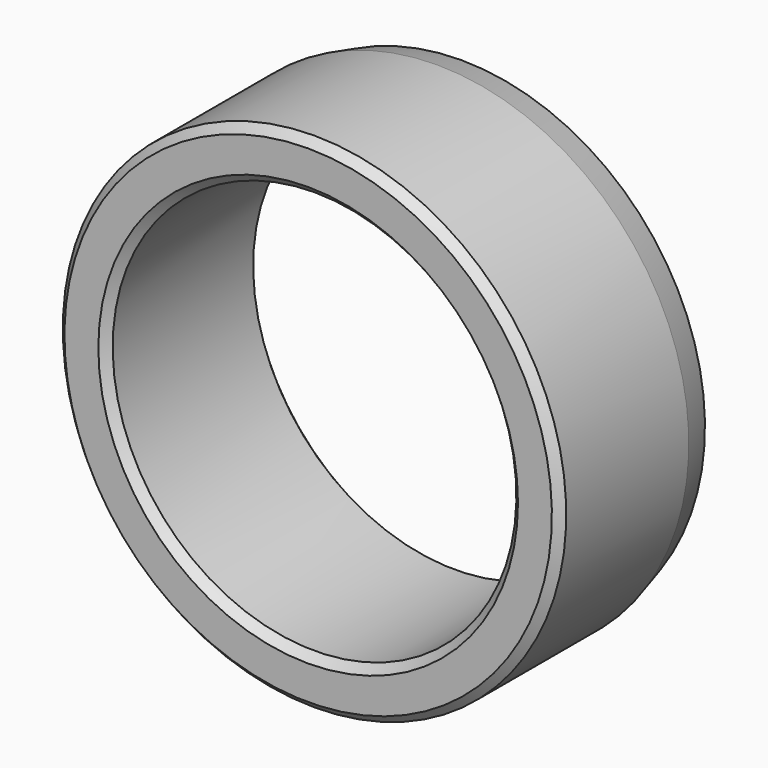
from build123d import *

# Parameters (mm, degrees)
F0_W     = 24
F0_H     = 6.2484
F2_SIZE  = 1
F3_SIZE2 = 1.020886
F3_SIZE  = 3.81


with BuildPart() as f1:
    # F0 (on Right) → F1 (revolve)
    with BuildSketch(Plane.YZ):
        with Locations((12, 28.4099)):
            Rectangle(F0_W, F0_H)
    revolve(axis=Axis((0, 10.069529, 0), (0, 1, 0)))

    # F2
    f2_edges = [f1.edges().sort_by_distance(p)[0] for p in [
        (0, 0, -25.2857),
        (0, 0, -31.5341),
        (0, 24, -25.2857),
    ]]
    chamfer(f2_edges, length=F2_SIZE)

    # F3
    f3_edges = [f1.edges().sort_by_distance(p)[0] for p in [
        (0, 24, -31.5341),
    ]]
    chamfer(f3_edges, length=F3_SIZE, length2=F3_SIZE2)


solid = f1.part
